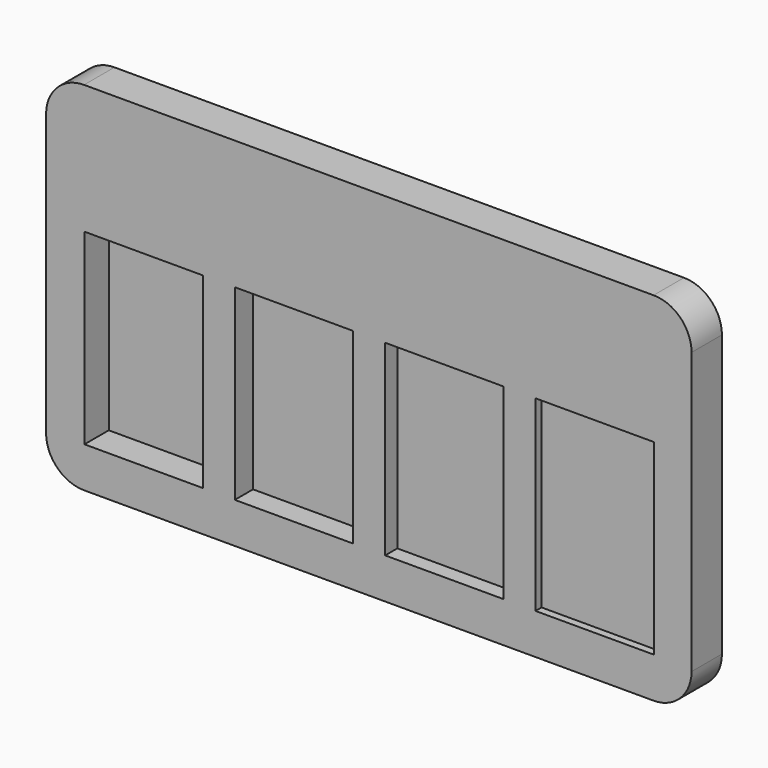
from build123d import *

# Parameters (mm, degrees)
F1_DEPTH = 5
F2_W     = 15.590731
F2_H     = 24.653931
F3_DEPTH = 4
F4_DEPTH = 3
F5_DEPTH = 2
F6_DEPTH = 1


with BuildPart() as f1:
    # F0 (on Front) → F1 (new body)
    with BuildSketch(Plane.XZ):
        with BuildLine():
            Line((-37.5, -23.5), (37.5, -23.5))
            ThreePointArc((37.5, -23.5), (41.035534, -22.035534), (42.5, -18.5))
            Line((42.5, -18.5), (42.5, 18.5))
            ThreePointArc((42.5, 18.5), (41.035534, 22.035534), (37.5, 23.5))
            Line((37.5, 23.5), (-37.5, 23.5))
            ThreePointArc((-37.5, 23.5), (-41.035534, 22.035534), (-42.5, 18.5))
            Line((-42.5, 18.5), (-42.5, -18.5))
            ThreePointArc((-42.5, -18.5), (-41.035534, -22.035534), (-37.5, -23.5))
        make_face()
    extrude(amount=F1_DEPTH)

    # F2 (on face) → F3 (cut)
    with BuildSketch(Plane.XZ.offset(5)):
        with Locations((-29.650416, -5.826966)):
            Rectangle(F2_W, F2_H)
    extrude(amount=-F3_DEPTH, mode=Mode.SUBTRACT)

    # F2 (on face) → F4 (cut)
    with BuildSketch(Plane.XZ.offset(5)):
        with Locations((-9.850416, -5.826966)):
            Rectangle(F2_W, F2_H)
    extrude(amount=-F4_DEPTH, mode=Mode.SUBTRACT)

    # F2 (on face) → F5 (cut)
    with BuildSketch(Plane.XZ.offset(5)):
        with Locations((9.949583, -5.826966)):
            Rectangle(F2_W, F2_H)
    extrude(amount=-F5_DEPTH, mode=Mode.SUBTRACT)

    # F2 (on face) → F6 (cut)
    with BuildSketch(Plane.XZ.offset(5)):
        with Locations((29.749583, -5.826966)):
            Rectangle(F2_W, F2_H)
    extrude(amount=-F6_DEPTH, mode=Mode.SUBTRACT)


solid = f1.part
